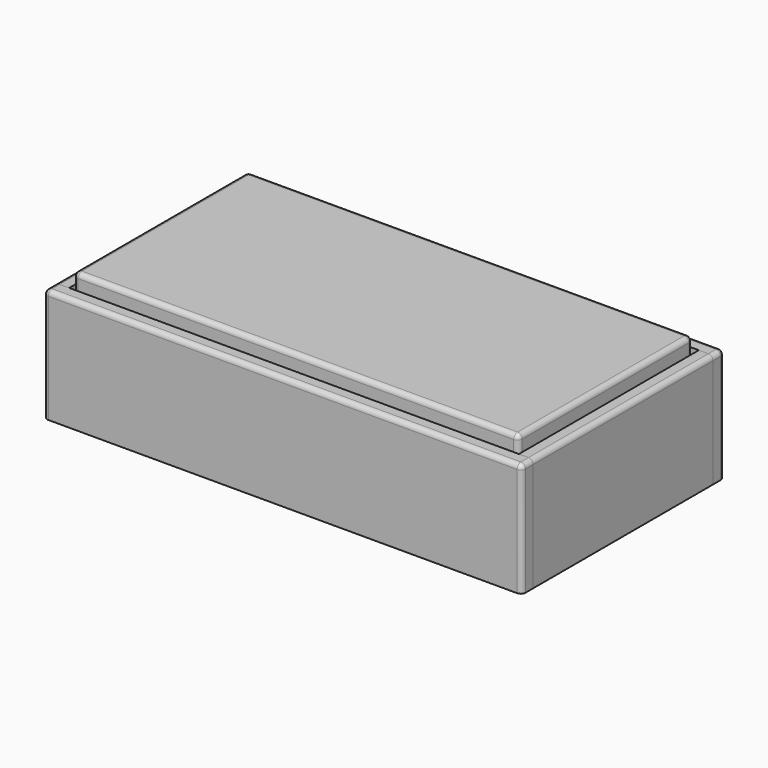
from build123d import *

# Parameters (mm, degrees)
F0_W      = 1282.7
F0_H      = 304.8
F1_DEPTH  = 38.1
F2_W      = 38.1
F2_H      = 304.8
F3_DEPTH  = 603.25
F4_W      = 38.1
F4_H      = 304.8
F5_DEPTH  = 1282.7
F6_W      = 1206.5
F6_H      = 88.9
F7_DEPTH  = 603.25
F8_W      = 1130.3
F8_H      = 527.05
F9_DEPTH  = 152.401
F10_W     = 1193.8
F10_H     = 584.2
F11_DEPTH = 25.4
F12_W     = 1193.8
F12_H     = 584.2
F13_DEPTH = 165.1
F14_R     = 12.7
F14_2_R   = 12.7
F15_R     = 12.7
F15_2_R   = 12.7
F15_3_R   = 12.7
F15_4_R   = 12.7
F16_R     = 12.7
F17_R     = 12.7


with BuildPart() as f1:
    # F0 (on Front) → F1 (new body)
    with BuildSketch(Plane.XZ):
        with Locations((641.35, 152.4)):
            Rectangle(F0_W, F0_H)
    extrude(amount=F1_DEPTH)

    # F14#2
    f14_2_edges = [f1.edges().sort_by_distance(p)[0] for p in [
        (0, -38.1, 152.4),
        (1282.7, -38.1, 152.4),
    ]]
    fillet(f14_2_edges, radius=F14_2_R)

    # F15#4
    f15_4_edges = [f1.edges().sort_by_distance(p)[0] for p in [
        (641.35, -38.1, 304.8),
    ]]
    fillet(f15_4_edges, radius=F15_4_R)


with BuildPart() as f3:
    # F2 (on face) → F3 (new body)
    with BuildSketch(Plane(origin=(0, 0, 0), x_dir=(-1, 0, 0), z_dir=(0, 1, 0))):
        with Locations((-1263.65, 152.4)):
            Rectangle(F2_W, F2_H)
    extrude(amount=F3_DEPTH)

    # F15#3
    f15_3_edges = [f3.edges().sort_by_distance(p)[0] for p in [
        (1282.7, 301.625, 304.8),
    ]]
    fillet(f15_3_edges, radius=F15_3_R)


with BuildPart() as f3b:
    # F2 (on face) → F3, piece 2 (new body)
    with BuildSketch(Plane(origin=(0, 0, 0), x_dir=(-1, 0, 0), z_dir=(0, 1, 0))):
        with Locations((-19.05, 152.4)):
            Rectangle(F2_W, F2_H)
    extrude(amount=F3_DEPTH)

    # F15#2
    f15_2_edges = [f3b.edges().sort_by_distance(p)[0] for p in [
        (0, 301.625, 304.8),
    ]]
    fillet(f15_2_edges, radius=F15_2_R)


with BuildPart() as f5:
    # F4 (on face) → F5 (new body, through all)
    with BuildSketch(Plane(origin=(0, 0, 0), x_dir=(0, -1, 0), z_dir=(-1, 0, 0))):
        with Locations((-622.3, 152.4)):
            Rectangle(F4_W, F4_H)
    extrude(amount=-F5_DEPTH)

    # F14
    f14_edges = [f5.edges().sort_by_distance(p)[0] for p in [
        (0, 641.35, 152.4),
        (1282.7, 641.35, 152.4),
    ]]
    fillet(f14_edges, radius=F14_R)

    # F15
    f15_edges = [f5.edges().sort_by_distance(p)[0] for p in [
        (641.35, 641.35, 304.8),
    ]]
    fillet(f15_edges, radius=F15_R)


with BuildPart() as f7:
    # F6 (on face) → F7 (new body, through all)
    with BuildSketch(Plane(origin=(0, 0, 0), x_dir=(-1, 0, 0), z_dir=(0, 1, 0))):
        with Locations((-641.35, 107.95)):
            Rectangle(F6_W, F6_H)
    extrude(amount=F7_DEPTH)

    # F8 (on face) → F9 (cut, through all)
    with BuildSketch(Plane.XY.offset(152.4)):
        with Locations((641.35, 301.625)):
            Rectangle(F8_W, F8_H)
    extrude(amount=-F9_DEPTH, mode=Mode.SUBTRACT)


with BuildPart() as f11:
    # F10 (on face) → F11 (new body)
    with BuildSketch(Plane.XY.offset(152.4)):
        with Locations((641.35, 304.8)):
            Rectangle(F10_W, F10_H)
    extrude(amount=F11_DEPTH)


with BuildPart() as f13:
    # F12 (on face) → F13 (new body)
    with BuildSketch(Plane.XY.offset(177.8)):
        with Locations((641.35, 298.45)):
            Rectangle(F12_W, F12_H)
    extrude(amount=F13_DEPTH)

    # F16
    f16_edges = [f13.edges().sort_by_distance(p)[0] for p in [
        (44.45, 590.55, 260.35),
        (1238.25, 590.55, 260.35),
        (1238.25, 6.35, 260.35),
        (44.45, 6.35, 260.35),
    ]]
    fillet(f16_edges, radius=F16_R)

    # F17
    f17_edges = [f13.edges().sort_by_distance(p)[0] for p in [
        (641.35, 590.55, 342.9),
    ]]
    fillet(f17_edges, radius=F17_R)


solid = Compound([f1.part, f3.part, f3b.part, f5.part, f7.part, f11.part, f13.part])
